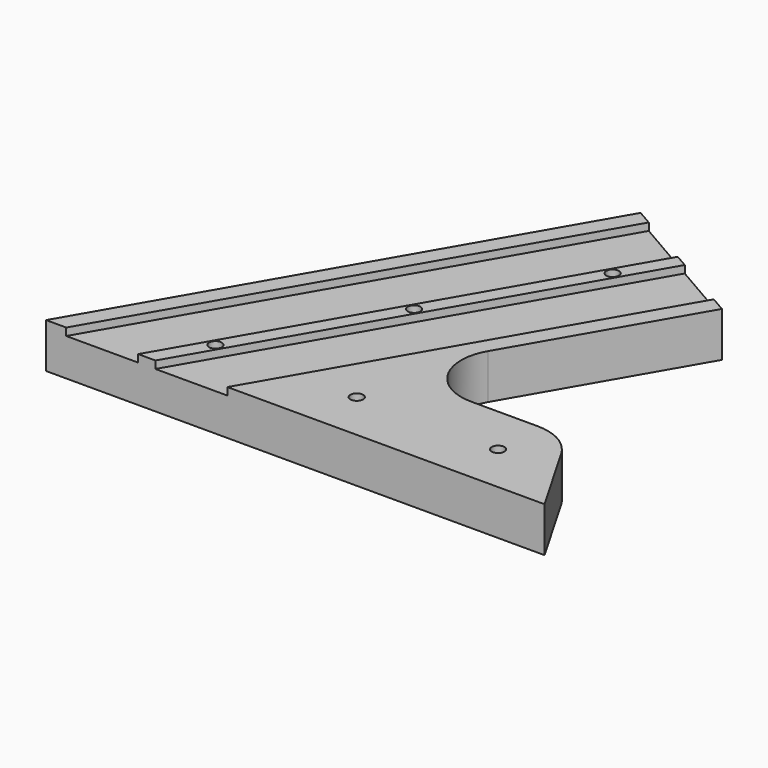
from build123d import *

# Parameters (mm, degrees)
PAD_DEPTH                = 18
SKETCH001_R              = 2.55
POCKET_DEPTH             = 18.001
SKETCH003_W              = 3
SKETCH003_H              = 25
POCKET003_DEPTH          = 200.001
CLONE003_PITCH_ANGLE     = 90
CLONE003_PLACEMENT_ANGLE = 90


with BuildPart() as part:
    # Sketch → Pad (new body)
    with BuildSketch(Plane.YZ):
        with BuildLine():
            Line((0, 0), (200, 0))
            Line((200, 0), (100, 173.205081))
            Line((100, 173.205081), (39.378222, 138.205081))
            Line((39.378222, 138.205081), (78.756443, 70))
            ThreePointArc((61.435935, 40), (78.756443, 50), (78.756443, 70))
            Line((61.435935, 40), (34.641016, 40))
            ThreePointArc((34.641016, 40), (24.641016, 37.320508), (17.320508, 30))
            Line((17.320508, 30), (0, 0))
        make_face()
    extrude(amount=PAD_DEPTH)

    # Sketch001 (on Face10 of Pad) → Pocket (cut, through all)
    with BuildSketch(Plane.YZ.offset(18)):
        with Locations((81.236116, 135.705081)):
            Circle(SKETCH001_R)
        with Locations((114.637296, 77.85254)):
            Circle(SKETCH001_R)
        with Locations((148.038476, 20)):
            Circle(SKETCH001_R)
        with Locations((91.339746, 20)):
            Circle(SKETCH001_R)
        with Locations((34.641016, 20)):
            Circle(SKETCH001_R)
    extrude(amount=-POCKET_DEPTH, mode=Mode.SUBTRACT)

    # Sketch003 (on Face8 of Clone002) → Pocket003 (cut, through all)
    with BuildSketch(Plane(origin=(0, -50, 86.60254), x_dir=(1, 0, 0), z_dir=(0, -0.5, 0.866025))):
        with Locations((1.5, 122.705081)):
            Rectangle(SKETCH003_W, SKETCH003_H)
        with Locations((1.5, 153.705081)):
            Rectangle(SKETCH003_W, SKETCH003_H)
    extrude(amount=-POCKET003_DEPTH, mode=Mode.SUBTRACT)


with BuildPart() as part_1:
    # Clone003 pitch: moved
    add(part.part.rotate(Axis((0, 0, 0), (0, 1, 0)), CLONE003_PITCH_ANGLE))


with BuildPart() as part_2:
    # Clone003 placement: moved
    add(part_1.part.moved(Location((200, 0, 18))).rotate(Axis((200, 0, 18), (0, 0, 1)), CLONE003_PLACEMENT_ANGLE))


solid = part_2.part
